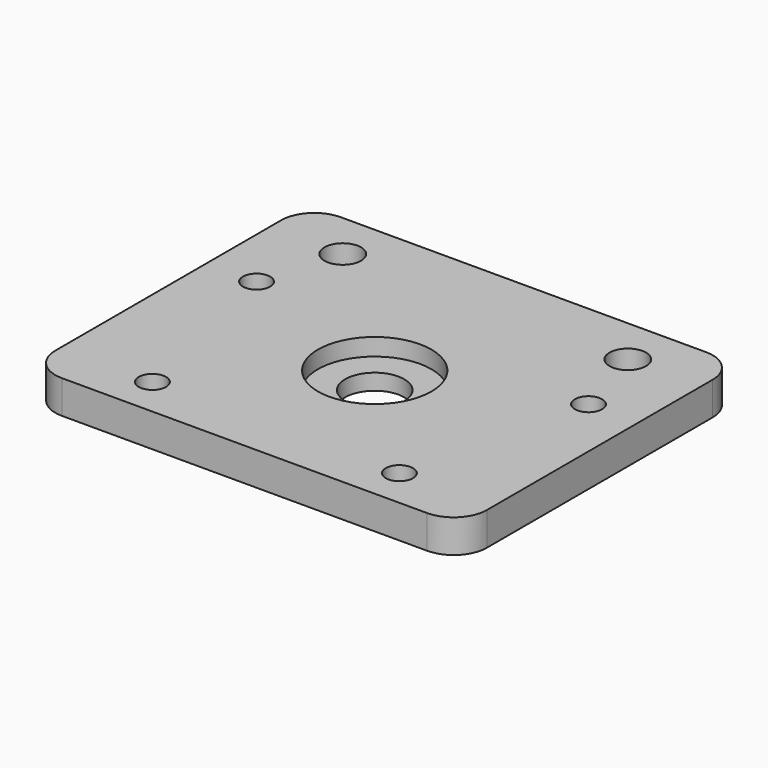
from build123d import *

# Parameters (mm, degrees)
F1_W           = 82.55
F1_H           = 66.675
F2_DEPTH       = 6.35
F4_D           = 11.303
F4_CBORE_D     = 21.717
F4_CBORE_DEPTH = 3.302
F6_D           = 6.985
F7_D           = 6.985
F8_D           = 5.207
F9_R           = 6.35
F11_D          = 5.207


with BuildPart() as f2:
    # F1 (on Top) → F2 (new body)
    with BuildSketch(Plane.XY):
        with Locations((0, 2.2225)):
            Rectangle(F1_W, F1_H)
    extrude(amount=F2_DEPTH)

    # F4 (through all)
    with Locations(Plane.XY.offset(6.35)):
        with Locations((0, 0)):
            CounterBoreHole(F4_D / 2, F4_CBORE_D / 2, F4_CBORE_DEPTH)

    # F6 (through all)
    with Locations(Plane.XY.offset(6.35)):
        with Locations((-27.2669, 26.4414)):
            Hole(F6_D / 2)

    # F7 (through all)
    with Locations(Plane.XY.offset(6.35)):
        with Locations((27.26436, 26.4414)):
            Hole(F7_D / 2)

    # F8 (through all)
    with Locations(Plane(origin=(0, 0, 0), x_dir=(1, 0, 0), z_dir=(0, 0, -1))):
        with Locations((23.622, 23.622), (-23.622, 23.622)):
            Hole(F8_D / 2)

    # F9
    f9_edges = [f2.edges().sort_by_distance(p)[0] for p in [
        (-41.275, -31.115, 3.175),
        (41.275, -31.115, 3.175),
        (41.275, 35.56, 3.175),
        (-41.275, 35.56, 3.175),
    ]]
    fillet(f9_edges, radius=F9_R)

    # F11 (through all)
    with Locations(Plane(origin=(0, 0, 0), x_dir=(1, 0, 0), z_dir=(0, 0, -1))):
        with Locations((-31.75, -11.43), (31.75, -11.43)):
            Hole(F11_D / 2)


solid = f2.part
